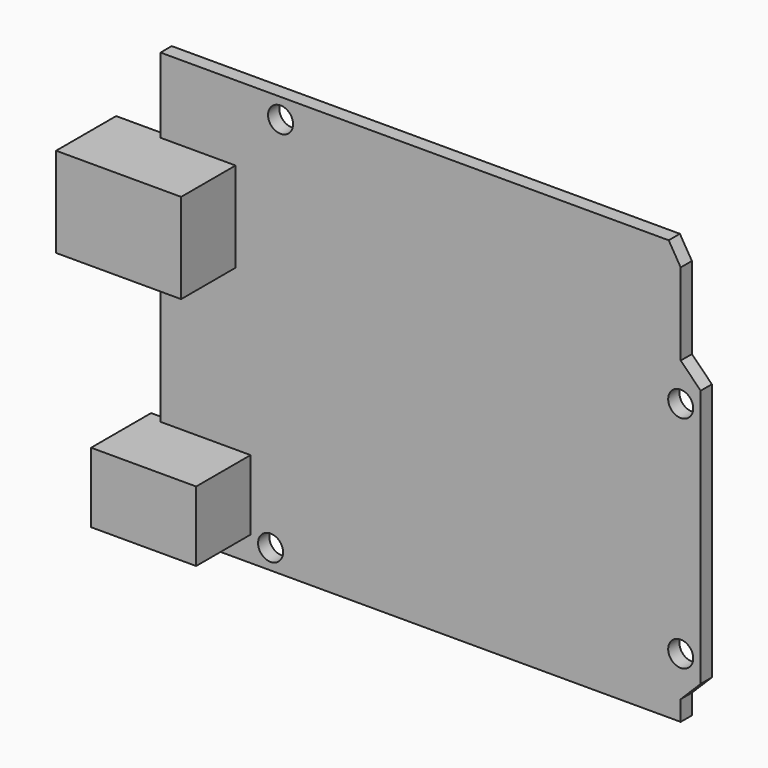
from build123d import *

# Parameters (mm, degrees)
F3_DEPTH = 0.889
F4_DEPTH = 9.525
F2_R     = 1.5875
F5_DEPTH = 12.7


with BuildPart() as f3:
    # F0 (on Front) → F3 (new body, symmetric)
    with BuildSketch(Plane.XZ):
        Polygon((0, 53.34), (0, 0), (66.04, 0), (66.04, 2.54), (68.58, 5.08), (68.58, 37.846), (66.04, 40.386), (66.04, 50.8), (64.516, 53.34), align=None)
    extrude(amount=F3_DEPTH, both=True)

    # F2 (on face) → F5 (cut, symmetric)
    with BuildSketch(Plane.XZ):
        with Locations((15.24, 50.8)):
            Circle(F2_R)
        with Locations((13.97, 2.54)):
            Circle(F2_R)
        with BuildLine():
            ThreePointArc((66.04, 6.0325), (67.162532, 6.497468), (67.6275, 7.62))
            ThreePointArc((67.6275, 7.62), (67.162532, 8.742532), (66.04, 9.2075))
            Line((66.04, 9.2075), (66.04, 6.0325))
        make_face()
        with BuildLine():
            Line((66.04, 6.0325), (66.04, 9.2075))
            ThreePointArc((66.04, 9.2075), (64.4525, 7.62), (66.04, 6.0325))
        make_face()
        with Locations((66.04, 35.56)):
            Circle(F2_R)
    extrude(amount=F5_DEPTH, both=True, mode=Mode.SUBTRACT)


with BuildPart() as f4:
    # F1 (on Front) → F4 (new body)
    with BuildSketch(Plane.XZ):
        Polygon((-1.905, 3.175), (0, 3.175), (11.43, 3.175), (11.43, 12.065), (0, 12.065), (-1.905, 12.065), align=None)
        Polygon((-6.35, 43.815), (-6.35, 32.385), (0, 32.385), (9.525, 32.385), (9.525, 43.815), align=None)
    extrude(amount=F4_DEPTH)


solid = Compound([f3.part, f4.part])
